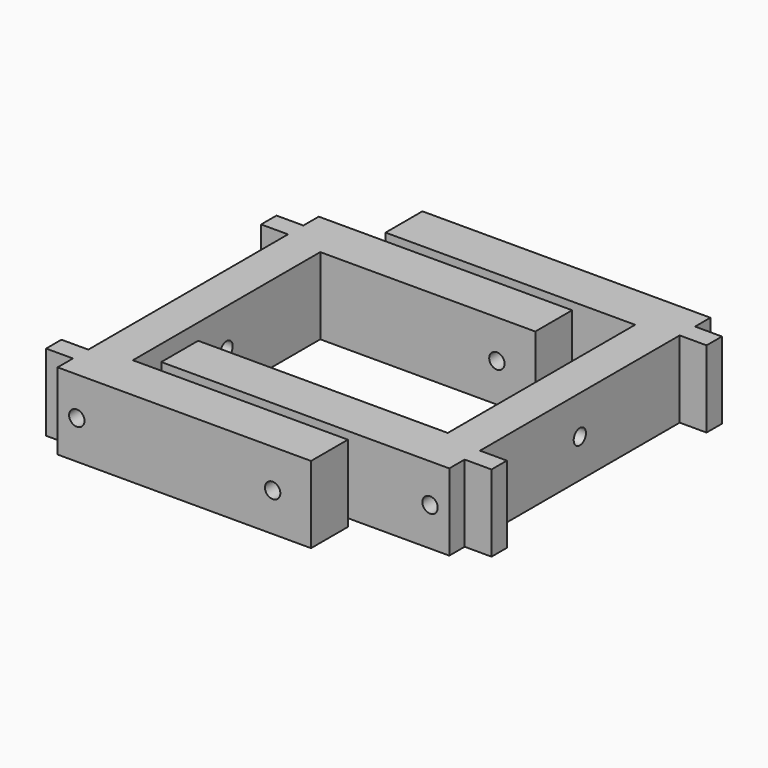
from build123d import *

# Parameters (mm, degrees)
PAD_DEPTH       = 20
SKETCH004_R     = 2
POCKET002_DEPTH = 66.001
SKETCH005_R     = 2
POCKET003_DEPTH = 85.001
PAD001_DEPTH    = 20
SKETCH007_R     = 2
POCKET004_DEPTH = 75.001
SKETCH008_R     = 2
POCKET005_DEPTH = 85.001


with BuildPart() as soporte_agujero_superior_lateral:
    # Sketch → Pad (new body)
    with BuildSketch(Plane.XY):
        Polygon((-10, -42.5), (56, -42.5), (56, -30.5), (0, -30.5), (0, 30.5), (56, 30.5), (56, 42.5), (-10, 42.5), (-10, 37.5), (-17, 37.5), (-17, 32.5), (-10, 32.5), (-10, -32.5), (-17, -32.5), (-17, -37.5), (-10, -37.5), align=None)
    extrude(amount=PAD_DEPTH)

    # Sketch004 → Pocket002 (cut, through all)
    with BuildSketch(Plane(origin=(-10, 0, 0), x_dir=(0, -1, 0), z_dir=(-1, 0, 0))):
        with Locations((0, 10)):
            Circle(SKETCH004_R)
    extrude(amount=-POCKET002_DEPTH, mode=Mode.SUBTRACT)

    # Sketch005 → Pocket003 (cut, through all)
    with BuildSketch(Plane.XZ.offset(42.5)):
        with Locations((-5, 10)):
            Circle(SKETCH005_R)
        with Locations((46, 10)):
            Circle(SKETCH005_R)
    extrude(amount=-POCKET003_DEPTH, mode=Mode.SUBTRACT)


with BuildPart() as soporte_agujero_superior_lateral001:
    # Sketch006 → Pad001 (new body)
    with BuildSketch(Plane(origin=(70, 15, 0), x_dir=(-1, 0, 0), z_dir=(0, 0, 1))):
        Polygon((-10, -42.5), (65, -42.5), (65, -30.5), (0, -30.5), (0, 30.5), (65, 30.5), (65, 42.5), (-10, 42.5), (-10, 37.5), (-17, 37.5), (-17, 32.5), (-10, 32.5), (-10, -32.5), (-17, -32.5), (-17, -37.5), (-10, -37.5), align=None)
    extrude(amount=PAD001_DEPTH)

    # Sketch007 → Pocket004 (cut, through all)
    with BuildSketch(Plane(origin=(80, 15, 0), x_dir=(0, 1, 0), z_dir=(1, 0, 0))):
        with Locations((0, 10)):
            Circle(SKETCH007_R)
    extrude(amount=-POCKET004_DEPTH, mode=Mode.SUBTRACT)

    # Sketch008 → Pocket005 (cut, through all)
    with BuildSketch(Plane(origin=(70, 57.5, 0), x_dir=(-1, 0, 0), z_dir=(0, 1, 0))):
        with Locations((-5, 10)):
            Circle(SKETCH008_R)
        with Locations((55, 10)):
            Circle(SKETCH008_R)
    extrude(amount=-POCKET005_DEPTH, mode=Mode.SUBTRACT)


solid = Compound([soporte_agujero_superior_lateral.part, soporte_agujero_superior_lateral001.part])
